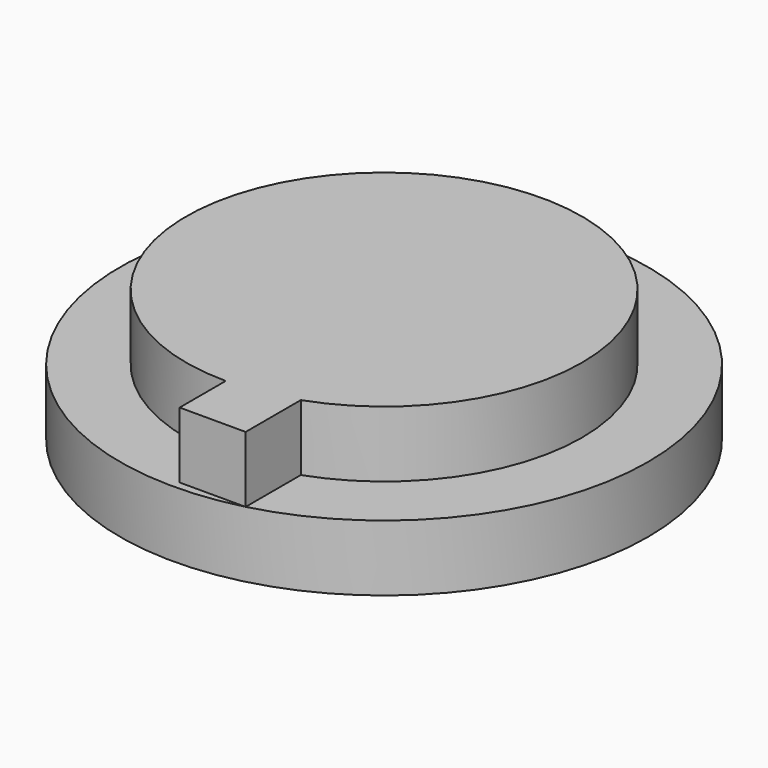
from build123d import *

# Parameters (mm, degrees)
F0_R     = 20
F1_DEPTH = 5
F2_R     = 15
F3_DEPTH = 5
F4_W     = 5
F4_H     = 19.364917
F5_DEPTH = 5


with BuildPart() as f1:
    # F0 (on Top) → F1 (new body)
    with BuildSketch(Plane.XY):
        Circle(F0_R)
    extrude(amount=F1_DEPTH)

    # F2 (on face) → F3 (join)
    with BuildSketch(Plane.XY.offset(5)):
        Circle(F2_R)
    extrude(amount=F3_DEPTH)

    # F4 (on face) → F5 (join)
    with BuildSketch(Plane.XY.offset(5)):
        with Locations((2.5, -9.682458)):
            Rectangle(F4_W, F4_H)
    extrude(amount=F5_DEPTH)


solid = f1.part
